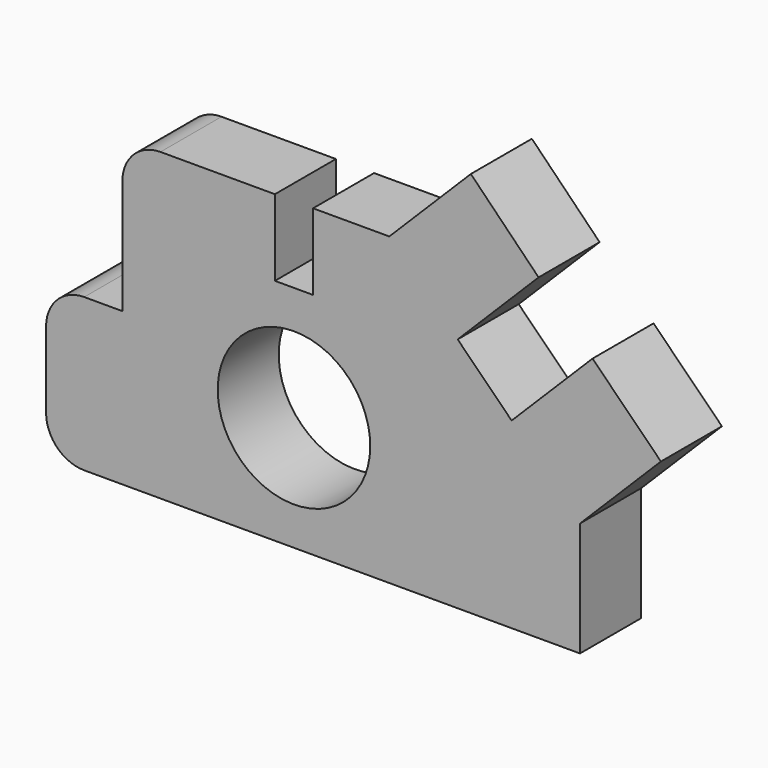
from build123d import *

# Parameters (mm, degrees)
F0_R     = 254
F1_DEPTH = 254


with BuildPart() as f1:
    # F0 (on Front) → F1 (new body)
    with BuildSketch(Plane.XZ):
        with BuildLine():
            ThreePointArc((0, 127), (37.1974387893, 37.1974387893), (127, 0))
            Line((127, 0), (1778, 0))
            Line((1778, 0), (1778, 381))
            Line((1778, 381), (2047.4076836321, 650.4076836321))
            Line((2047.4076836321, 650.4076836321), (1819.7052505575, 878.1101167066))
            Line((1819.7052505575, 878.1101167066), (1550.2975669255, 608.7024330745))
            Line((1550.2975669255, 608.7024330745), (1370.6924445041, 788.3075554959))
            Line((1370.6924445041, 788.3075554959), (1640.1001281361, 1057.715239128))
            Line((1640.1001281361, 1057.715239128), (1414.5404620613, 1287.5404620613))
            Line((1414.5404620613, 1287.5404620613), (1143, 1016))
            Line((1143, 1016), (889, 1016))
            Line((889, 1016), (889, 762))
            Line((889, 762), (762, 762))
            Line((762, 762), (762, 1016))
            Line((762, 1016), (381, 1016))
            ThreePointArc((381, 1016), (291.1974387893, 978.8025612107), (254, 889))
            Line((254, 889), (254, 508))
            Line((254, 508), (127, 508))
            ThreePointArc((127, 508), (37.1974387893, 470.8025612107), (0, 381))
            Line((0, 381), (0, 127))
        make_face()
        with Locations((825.5, 381)):
            Circle(F0_R, mode=Mode.SUBTRACT)
    extrude(amount=F1_DEPTH)


solid = f1.part
